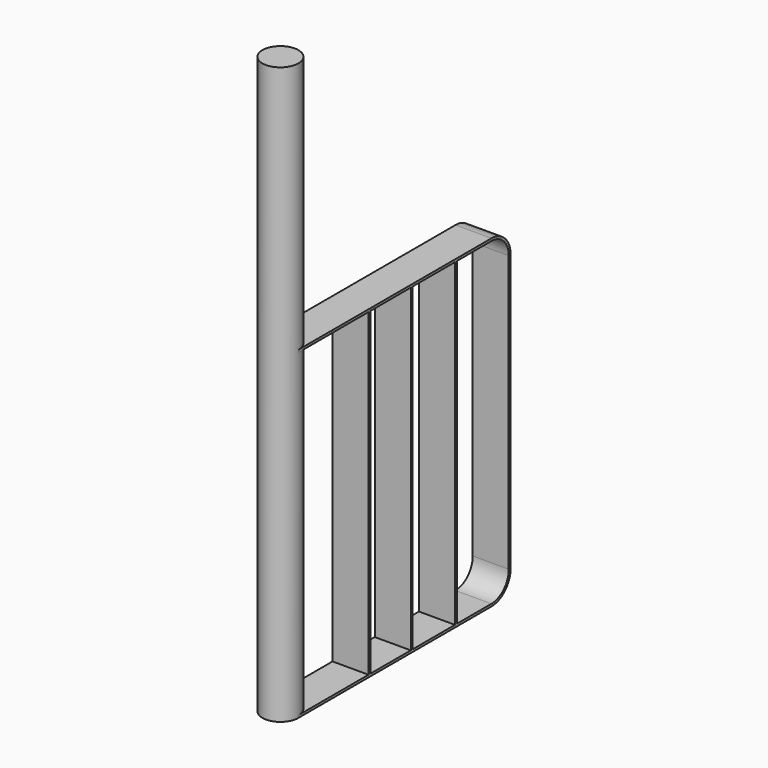
from build123d import *

# Parameters (mm, degrees)
F0_R     = 7.5
F1_DEPTH = 240
F2_W     = 21
F2_H     = 133
F2_W_2   = 22
F3_DEPTH = 7.5


with BuildPart() as f1:
    # F0 (on Top) → F1 (new body)
    with BuildSketch(Plane.XY):
        Circle(F0_R)
    extrude(amount=F1_DEPTH)

    # F2 (on Right) → F3 (join, symmetric)
    with BuildSketch(Plane.YZ):
        with BuildLine():
            Line((0, 1), (0, 0))
            Line((0, 0), (100.5, 0))
            ThreePointArc((100.5, 0), (107.571068, 2.928932), (110.5, 10))
            Line((110.5, 10), (110.5, 125))
            ThreePointArc((110.5, 125), (107.571068, 132.071068), (100.5, 135))
            Line((100.5, 135), (0, 135))
            Line((0, 135), (0, 134))
            Line((0, 134), (36.5, 134))
            Line((36.5, 134), (36.5, 1))
            Line((36.5, 1), (0, 1))
        make_face()
        with Locations((48, 67.5)):
            Rectangle(F2_W, F2_H, mode=Mode.SUBTRACT)
        with Locations((70.5, 67.5)):
            Rectangle(F2_W_2, F2_H, mode=Mode.SUBTRACT)
        with BuildLine():
            ThreePointArc((100.5, 134), (106.863961, 131.363961), (109.5, 125))
            Line((109.5, 125), (109.5, 10))
            ThreePointArc((109.5, 10), (106.863961, 3.636039), (100.5, 1))
            Line((100.5, 1), (82.5, 1))
            Line((82.5, 1), (82.5, 134))
            Line((82.5, 134), (100.5, 134))
        make_face(mode=Mode.SUBTRACT)
    extrude(amount=F3_DEPTH, both=True)


solid = f1.part
